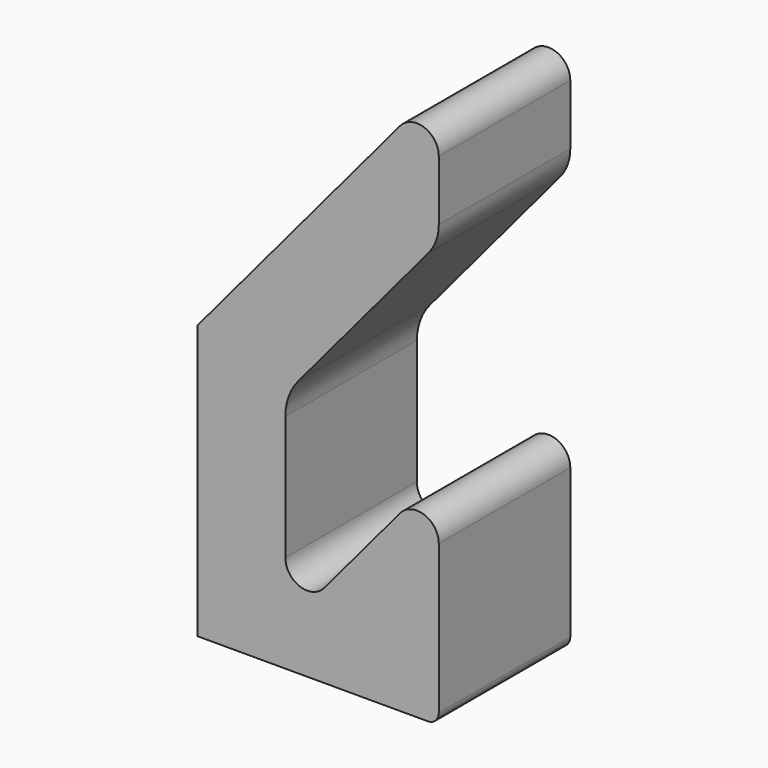
from build123d import *

# Parameters (mm, degrees)
F1_DEPTH = 19.05


with BuildPart() as f1:
    # F0 (on Front) → F1 (new body)
    with BuildSketch(Plane.XZ):
        with BuildLine():
            Line((0, 31.75), (0, 0))
            Line((0, 0), (26.67, 0))
            ThreePointArc((26.67, 0), (27.568026, 0.371974), (27.94, 1.27))
            Line((27.94, 1.27), (27.94, 18.553618))
            ThreePointArc((27.94, 18.553618), (26.268731, 20.940437), (23.454247, 20.186298))
            Line((23.454247, 20.186298), (14.645753, 9.688743))
            ThreePointArc((14.645753, 9.688743), (11.831269, 8.934605), (10.16, 11.321424))
            Line((10.16, 11.321424), (10.16, 25.740851))
            ThreePointArc((10.16, 25.740851), (10.542952, 27.912679), (11.645618, 29.822553))
            Line((11.645618, 29.822553), (26.751506, 47.825049))
            ThreePointArc((26.751506, 47.825049), (27.633639, 49.352948), (27.94, 51.09041))
            Line((27.94, 51.09041), (27.94, 58.069003))
            ThreePointArc((27.94, 58.069003), (26.268731, 60.455822), (23.454247, 59.701683))
            Line((23.454247, 59.701683), (0, 31.75))
        make_face()
    extrude(amount=F1_DEPTH)


solid = f1.part
